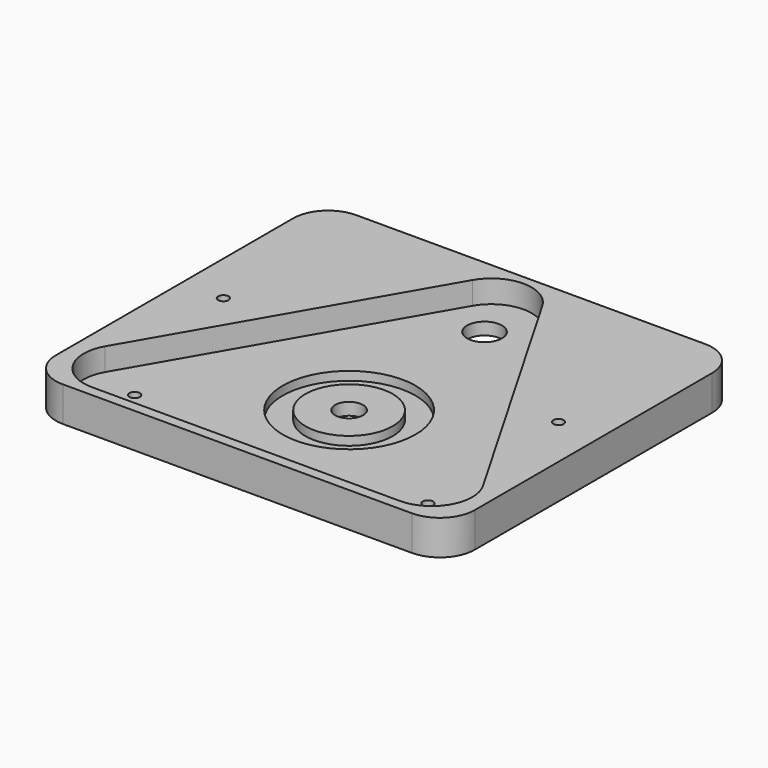
from build123d import *

# Parameters (mm, degrees)
PAD_DEPTH       = 10
SKETCH_R        = 1.5
SKETCH_R_2      = 5
SKETCH_R_3      = 4
POCKET_DEPTH    = 10.001
POCKET001_DEPTH = 6.5
SKETCH006_R     = 19
SKETCH006_R_2   = 12.5
POCKET002_DEPTH = 9
SHAPEBINDER_R   = 1.5
POCKET003_DEPTH = 10.001


with BuildPart() as part:
    # Clone2D → Pad (new body)
    with BuildSketch(Plane.XY):
        with BuildLine():
            Line((-50, -40), (50, -40))
            ThreePointArc((50, -40), (57.071068, -37.071068), (60, -30))
            Line((60, -30), (60, 55))
            ThreePointArc((60, 55), (57.071068, 62.071068), (50, 65))
            Line((50, 65), (-50, 65))
            ThreePointArc((-50, 65), (-57.071068, 62.071068), (-60, 55))
            Line((-60, 55), (-60, -30))
            ThreePointArc((-60, -30), (-57.071068, -37.071068), (-50, -40))
        make_face()
    extrude(amount=-PAD_DEPTH)

    # Sketch → Pocket (cut, through all)
    with BuildSketch(Plane.XY):
        with Locations((-42.002232, -24.25)):
            Circle(SKETCH_R)
        with Locations((42.002232, -24.25)):
            Circle(SKETCH_R)
        with Locations((0, 48.5)):
            Circle(SKETCH_R_2)
        Circle(SKETCH_R_3)
    extrude(amount=-POCKET_DEPTH, mode=Mode.SUBTRACT)

    # Clone2D002 → Pocket001 (cut)
    with BuildSketch(Plane.XY):
        with BuildLine():
            ThreePointArc((10.002593, 56.7), (0, 62.475), (-10.002593, 56.7))
            Line((-10.002593, 56.7), (-54.104937, -19.6875))
            ThreePointArc((-54.104937, -19.6875), (-54.104937, -31.2375), (-44.102344, -37.0125))
            Line((-44.102344, -37.0125), (44.102344, -37.0125))
            ThreePointArc((44.102344, -37.0125), (54.104937, -31.2375), (54.104937, -19.6875))
            Line((54.104937, -19.6875), (10.002593, 56.7))
        make_face()
    extrude(amount=-POCKET001_DEPTH, mode=Mode.SUBTRACT)

    # Sketch006 → Pocket002 (cut)
    with BuildSketch(Plane.XY):
        Circle(SKETCH006_R)
        Circle(SKETCH006_R_2, mode=Mode.SUBTRACT)
    extrude(amount=-POCKET002_DEPTH, mode=Mode.SUBTRACT)

    # ShapeBinder → Pocket003 (cut, through all)
    with BuildSketch(Plane(origin=(0, 15, 0), x_dir=(0, 1, 0), z_dir=(0, 0, 1))):
        with Locations((0, 48)):
            Circle(SHAPEBINDER_R)
        with Locations((0, -48)):
            Circle(SHAPEBINDER_R)
    extrude(amount=-POCKET003_DEPTH, mode=Mode.SUBTRACT)


solid = part.part
